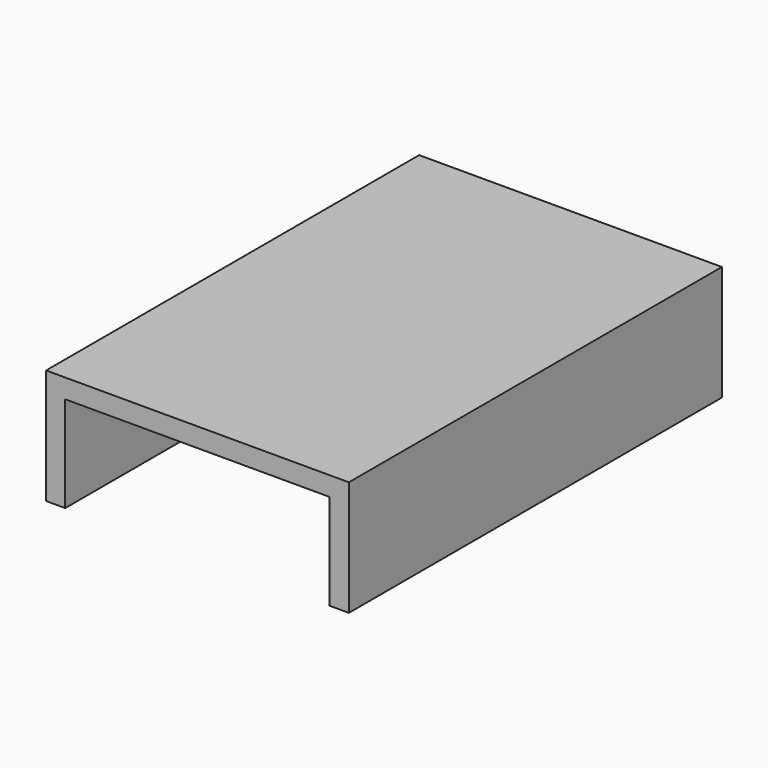
from build123d import *

# Parameters (mm, degrees)
F1_W     = 23.7
F1_H     = 36.5
F2_DEPTH = 9
F3_DEPTH = 7.5


with BuildPart() as f2:
    # F1 (on Top) → F2 (new body)
    with BuildSketch(Plane.XY):
        with Locations((0, 0.75)):
            Rectangle(F1_W, F1_H)
    extrude(amount=F2_DEPTH)

    # F0 (on Top) → F3 (cut)
    with BuildSketch(Plane.XY):
        Polygon((-10.35, -17.5), (10.35, -17.5), (10.35, 17.5), (2.75, 17.5), (2.75, 19), (-2.75, 19), (-2.75, 17.5), (-10.35, 17.5), align=None)
    extrude(amount=F3_DEPTH, mode=Mode.SUBTRACT)


solid = f2.part
